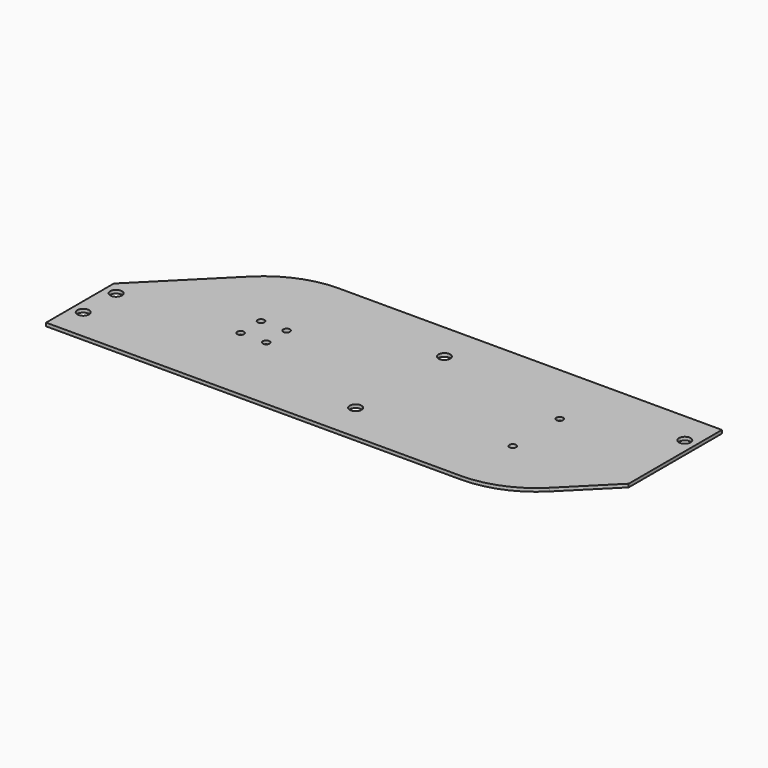
from build123d import *

# Parameters (mm, degrees)
F0_R     = 3.175
F0_R_2   = 1.8288
F1_DEPTH = 1.778


with BuildPart() as f1:
    # F0 (on Top) → F1 (new body)
    with BuildSketch(Plane.XY):
        with BuildLine():
            Line((133.35, -12.152049), (133.35, 50.8))
            Line((133.35, 50.8), (73.66, 50.8))
            ThreePointArc((73.66, 50.8), (109.581024, 35.921024), (124.46, 0))
            ThreePointArc((124.46, 0), (120.59308, -19.440318), (109.581024, -35.921024))
            Line((109.581024, -35.921024), (133.35, -12.152049))
        make_face()
        with Locations((127, 33.655)):
            Circle(F0_R, mode=Mode.SUBTRACT)
        with BuildLine():
            ThreePointArc((124.46, 0), (109.581024, 35.921024), (73.66, 50.8))
            ThreePointArc((73.66, 50.8), (22.86, 0), (73.66, -50.8))
            ThreePointArc((73.66, -50.8), (93.100318, -46.93308), (109.581024, -35.921024))
            ThreePointArc((109.581024, -35.921024), (120.59308, -19.440318), (124.46, 0))
        make_face()
        with Locations((73.66, -15.875)):
            Circle(F0_R_2, mode=Mode.SUBTRACT)
        with Locations((66.745203, -6.914797)):
            Circle(F0_R_2, mode=Mode.SUBTRACT)
        with Locations((80.574797, -6.914797)):
            Circle(F0_R_2, mode=Mode.SUBTRACT)
        with Locations((66.745203, 6.914797)):
            Circle(F0_R_2, mode=Mode.SUBTRACT)
        with Locations((80.574797, 6.914797)):
            Circle(F0_R_2, mode=Mode.SUBTRACT)
        with Locations((73.66, 15.875)):
            Circle(F0_R_2, mode=Mode.SUBTRACT)
        with BuildLine():
            ThreePointArc((73.66, -50.8), (22.86, 0), (73.66, 50.8))
            Line((73.66, 50.8), (-73.66, 50.8))
            ThreePointArc((-73.66, 50.8), (-37.738975, 35.921024), (-22.86, 0))
            ThreePointArc((-22.86, 0), (-37.738976, -35.921025), (-73.66, -50.8))
            Line((-73.66, -50.8), (73.66, -50.8))
        make_face()
        with Locations((0, -29.972)):
            Circle(F0_R, mode=Mode.SUBTRACT)
        with Locations((0, 29.972)):
            Circle(F0_R, mode=Mode.SUBTRACT)
        with BuildLine():
            ThreePointArc((-73.66, -50.8), (-120.59308, -19.440318), (-109.581024, 35.921024))
            Line((-109.581024, 35.921024), (-133.35, 12.152049))
            Line((-133.35, 12.152049), (-133.35, -50.8))
            Line((-133.35, -50.8), (-73.66, -50.8))
        make_face()
        Polygon((-133.35, -50.8), (-133.35, 12.152049), (-150.5712, -5.069151), (-150.5712, -50.8), align=None)
        with Locations((-144.2212, -33.655)):
            Circle(F0_R, mode=Mode.SUBTRACT)
        with Locations((-144.2212, -11.43)):
            Circle(F0_R, mode=Mode.SUBTRACT)
        with BuildLine():
            ThreePointArc((-22.86, 0), (-37.738975, 35.921024), (-73.66, 50.8))
            ThreePointArc((-73.66, 50.8), (-93.100318, 46.93308), (-109.581024, 35.921024))
            ThreePointArc((-109.581024, 35.921024), (-120.59308, -19.440318), (-73.66, -50.8))
            ThreePointArc((-73.66, -50.8), (-37.738976, -35.921025), (-22.86, 0))
        make_face()
        with Locations((-80.574797, -6.914797)):
            Circle(F0_R_2, mode=Mode.SUBTRACT)
        with Locations((-73.66, -15.875)):
            Circle(F0_R_2, mode=Mode.SUBTRACT)
        with Locations((-66.745203, -6.914797)):
            Circle(F0_R_2, mode=Mode.SUBTRACT)
        with Locations((-80.574797, 6.914797)):
            Circle(F0_R_2, mode=Mode.SUBTRACT)
        with Locations((-66.745203, 6.914797)):
            Circle(F0_R_2, mode=Mode.SUBTRACT)
        with Locations((-73.66, 15.875)):
            Circle(F0_R_2, mode=Mode.SUBTRACT)
        with Locations((-73.66, 15.875)):
            Circle(F0_R_2)
        with Locations((-73.66, -15.875)):
            Circle(F0_R_2)
        with Locations((66.745203, 6.914797)):
            Circle(F0_R_2)
        with Locations((66.745203, -6.914797)):
            Circle(F0_R_2)
        with Locations((80.574797, 6.914797)):
            Circle(F0_R_2)
        with Locations((80.574797, -6.914797)):
            Circle(F0_R_2)
    extrude(amount=F1_DEPTH)


solid = f1.part
